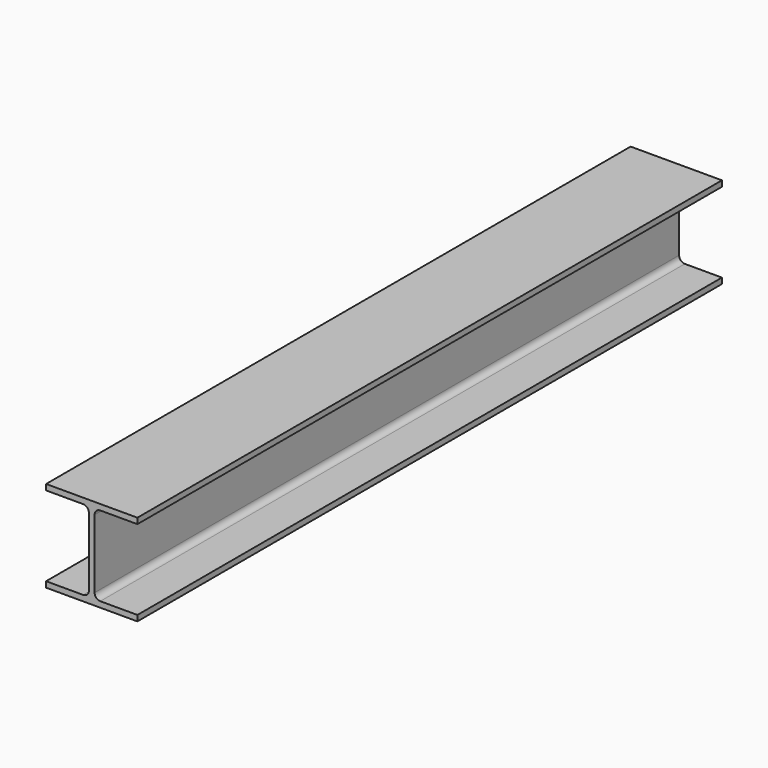
from build123d import *

# Parameters (mm, degrees)
F1_DEPTH = 1625.6
F2_R     = 12.7


with BuildPart() as f1:
    # F0 (on Front) → F1 (new body)
    with BuildSketch(Plane.XZ):
        Polygon((6.35, -101.6), (101.6, -101.6), (101.6, -88.9), (6.35, -88.9), (6.35, 88.9), (101.6, 88.9), (101.6, 101.6), (-101.6, 101.6), (-101.6, 88.9), (-6.35, 88.9), (-6.35, -88.9), (-101.6, -88.9), (-101.6, -101.6), (-6.35, -101.6), align=None)
    extrude(amount=F1_DEPTH)

    # F2
    f2_edges = [f1.edges().sort_by_distance(p)[0] for p in [
        (-6.35, -812.8, -88.9),
        (6.35, -812.8, -88.9),
        (6.35, -812.8, 88.9),
        (-6.35, -812.8, 88.9),
    ]]
    fillet(f2_edges, radius=F2_R)


solid = f1.part
